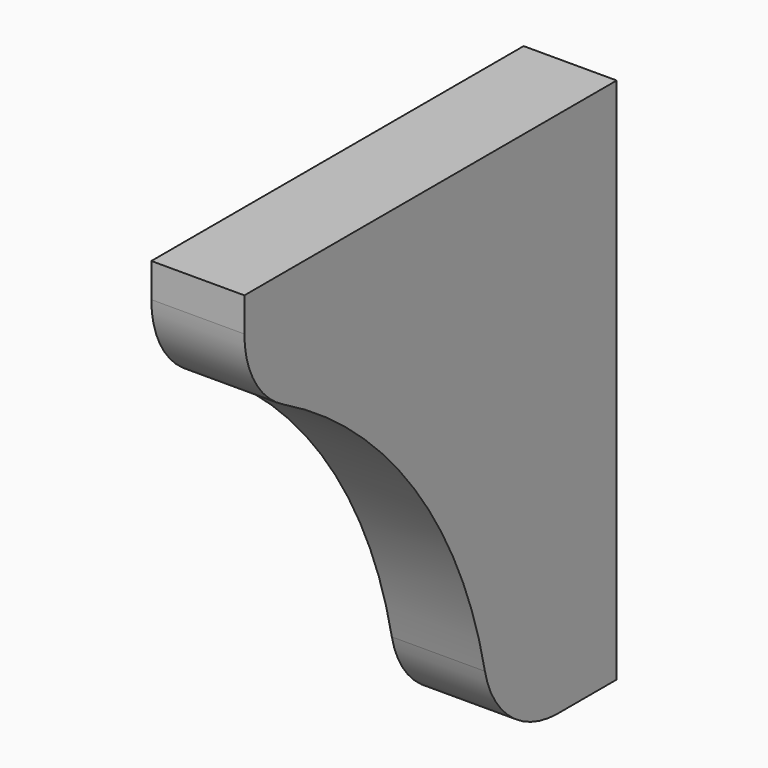
from build123d import *

# Parameters (mm, degrees)
F1_DEPTH = 19.05
F2_R     = 19.05


with BuildPart() as f1:
    # F0 (on Right) → F1 (new body)
    with BuildSketch(Plane.YZ):
        with BuildLine():
            Line((0, -107.95), (0, 0))
            Line((0, 0), (-95.25, 0))
            Line((-95.25, 0), (-95.25, -19.05))
            ThreePointArc((-95.25, -19.05), (-50.53412, -54.238657), (-31.75, -107.95))
            Line((-31.75, -107.95), (0, -107.95))
        make_face()
    extrude(amount=F1_DEPTH)

    # F2
    f2_edges = [f1.edges().sort_by_distance(p)[0] for p in [
        (9.525, -95.25, -19.05),
        (9.525, -31.75, -107.95),
    ]]
    fillet(f2_edges, radius=F2_R)


solid = f1.part
